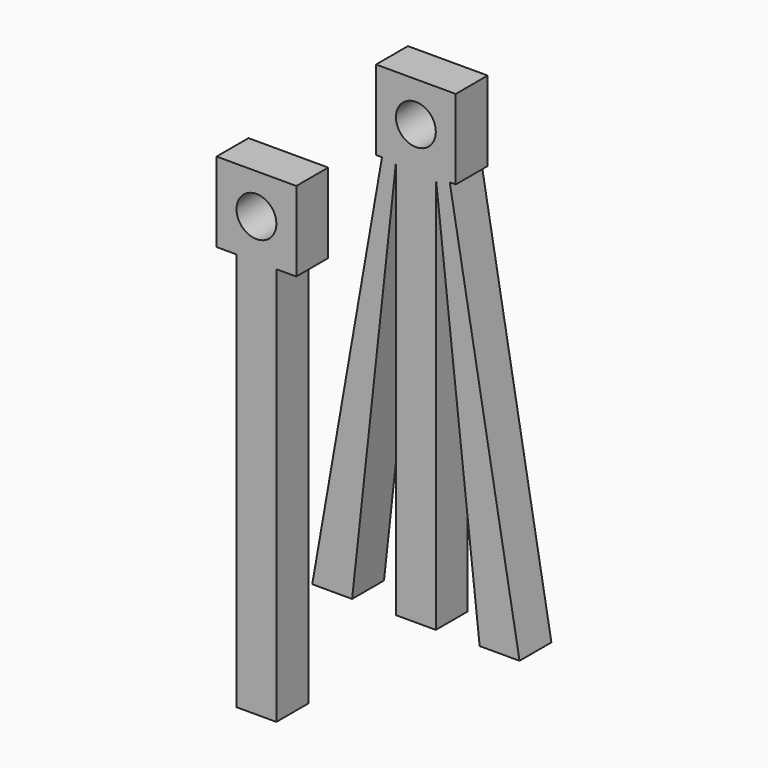
from build123d import *

# Parameters (mm, degrees)
F0_W      = 6.35
F0_H      = 76.2
F1_DEPTH  = 6.35
F3_DEPTH  = 6.35
F5_DEPTH  = 6.35
F6_R      = 3.175
F7_DEPTH  = 25.4
F8_W      = 6.35
F8_H      = 6.35
F9_DEPTH  = 76.2
F10_W     = 12.7
F10_H     = 12.7
F10_R     = 3.175
F11_DEPTH = 6.35
F12_R     = 3.175
F13_DEPTH = 25.4


with BuildPart() as f1:
    # F0 (on Front) → F1 (new body)
    with BuildSketch(Plane.XZ):
        with Locations((0, 38.1)):
            Rectangle(F0_W, F0_H)
    extrude(amount=F1_DEPTH)

    # F2 (on Front) → F3 (join)
    with BuildSketch(Plane.XZ):
        Polygon((-3.175, 63.5), (-3.175, 76.2), (-16.51, 0), (-10.16, 0), align=None)
        Polygon((16.51, 0), (3.175, 76.2), (3.175, 63.5), (10.16, 0), align=None)
    extrude(amount=F3_DEPTH)

    # F4 (on Front) → F5 (join)
    with BuildSketch(Plane.XZ):
        Polygon((-6.35, 63.5), (0, 63.5), (6.35, 63.5), (6.35, 76.2), (3.175, 76.2), (-3.175, 76.2), (-6.35, 76.2), align=None)
    extrude(amount=F5_DEPTH)

    # F6 (on face) → F7 (cut)
    with BuildSketch(Plane.XZ.offset(6.35)):
        with Locations((0, 69.85)):
            Circle(F6_R)
    extrude(amount=-F7_DEPTH, mode=Mode.SUBTRACT)


with BuildPart() as f9:
    # F8 (on Top) → F9 (new body)
    with BuildSketch(Plane.XY):
        with Locations((0, -34.925)):
            Rectangle(F8_W, F8_H)
    extrude(amount=F9_DEPTH)

    # F10 (on face) → F11 (join)
    with BuildSketch(Plane.XZ.offset(38.1)):
        with Locations((0, 69.85)):
            Rectangle(F10_W, F10_H)
        with Locations((0, 69.85)):
            Circle(F10_R, mode=Mode.SUBTRACT)
    extrude(amount=-F11_DEPTH)

    # F12 (on face) → F13 (cut)
    with BuildSketch(Plane.XZ.offset(38.1)):
        with Locations((0, 69.85)):
            Circle(F12_R)
    extrude(amount=-F13_DEPTH, mode=Mode.SUBTRACT)


solid = Compound([f1.part, f9.part])
